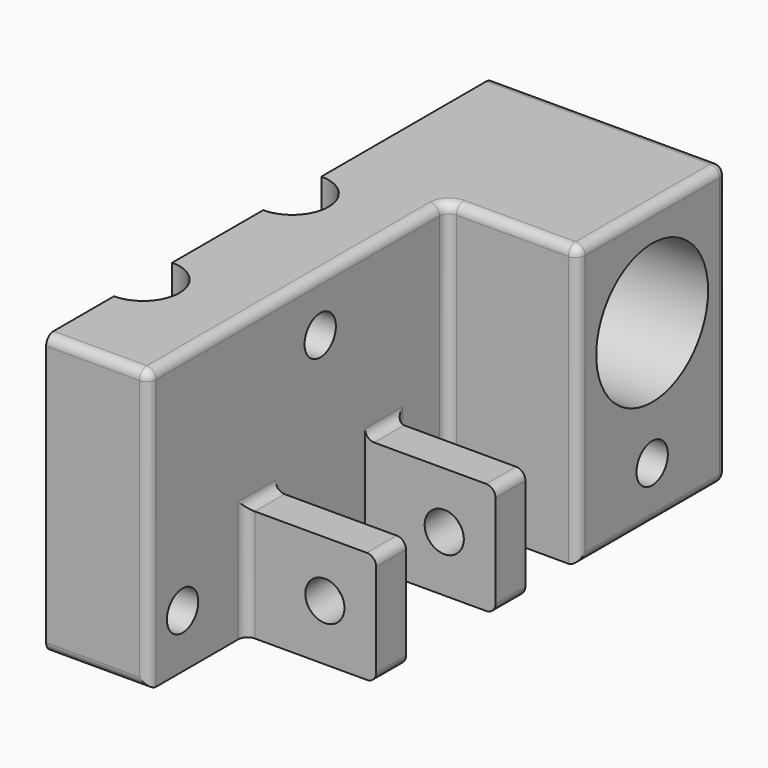
from build123d import *

# Parameters (mm, degrees)
F0_W     = 14
F0_H     = 20
F1_DEPTH = 30
F0_H_2   = 4
F2_DEPTH = 12
F3_R     = 7.5
F3_R_2   = 2.1
F4_DEPTH = 25.001
F5_R     = 2.1
F6_DEPTH = 25
F7_R     = 1


with BuildPart() as f1:
    # F0 (on Top) → F1 (new body)
    with BuildSketch(Plane.XY):
        with BuildLine():
            Line((-28.710388, 64.3535), (-39.710388, 64.3535))
            Line((-39.710388, 64.3535), (-39.710388, 41.2535))
            ThreePointArc((-39.710388, 41.2535), (-36.952671, 40.111216), (-35.810388, 37.3535))
            ThreePointArc((-35.810388, 37.3535), (-36.952671, 34.595783), (-39.710388, 33.4535))
            Line((-39.710388, 33.4535), (-39.710388, 21.2535))
            ThreePointArc((-39.710388, 21.2535), (-36.952671, 20.111216), (-35.810388, 17.3535))
            ThreePointArc((-35.810388, 17.3535), (-36.952671, 14.595783), (-39.710388, 13.4535))
            Line((-39.710388, 13.4535), (-39.710388, 4.3535))
            Line((-39.710388, 4.3535), (-28.710388, 4.3535))
            Line((-28.710388, 4.3535), (-28.710388, 17.3535))
            Line((-28.710388, 17.3535), (-28.710388, 21.3535))
            Line((-28.710388, 21.3535), (-28.710388, 33.3535))
            Line((-28.710388, 33.3535), (-28.710388, 37.3535))
            Line((-28.710388, 37.3535), (-28.710388, 44.3535))
            Line((-28.710388, 44.3535), (-28.710388, 64.3535))
        make_face()
        with Locations((-21.710388, 54.3535)):
            Rectangle(F0_W, F0_H)
    extrude(amount=F1_DEPTH)

    # F0 (on Top) → F2 (join)
    with BuildSketch(Plane.XY):
        with Locations((-21.710388, 35.3535)):
            Rectangle(F0_W, F0_H_2)
        with Locations((-21.710388, 19.3535)):
            Rectangle(F0_W, F0_H_2)
    extrude(amount=F2_DEPTH)

    # F3 (on face) → F4 (cut, through all)
    with BuildSketch(Plane.YZ.offset(-14.710388)):
        with Locations((54.3535, 19)):
            Circle(F3_R)
        with Locations((54.3535, 5.75)):
            Circle(F3_R_2)
        with Locations((27.3535, 24.25)):
            Circle(F3_R_2)
        with Locations((8.9035, 5.75)):
            Circle(F3_R_2)
    extrude(amount=-F4_DEPTH, mode=Mode.SUBTRACT)

    # F5 (on face) → F6 (cut)
    with BuildSketch(Plane(origin=(0, 37.3535, 0), x_dir=(-1, 0, 0), z_dir=(0, 1, 0))):
        with Locations((20.210388, 6)):
            Circle(F5_R)
    extrude(amount=-F6_DEPTH, mode=Mode.SUBTRACT)

    # F7
    f7_edges = [f1.edges().sort_by_distance(p)[0] for p in [
        (-14.710388, 35.3535, 12),
        (-14.710388, 19.3535, 12),
        (-14.710388, 19.3535, 0),
        (-14.710388, 54.3535, 0),
        (-14.710388, 44.3535, 15),
        (-14.710388, 54.3535, 30),
        (-14.710388, 64.3535, 15),
        (-27.210388, 64.3535, 0),
        (-27.210388, 64.3535, 30),
        (-34.210388, 4.3535, 0),
        (-28.710388, 4.3535, 15),
        (-28.710388, 24.3535, 30),
        (-21.710388, 44.3535, 30),
        (-28.710388, 19.3535, 12),
        (-28.710388, 35.3535, 12),
        (-28.710388, 37.3535, 6),
        (-28.710388, 17.3535, 6),
        (-34.210388, 4.3535, 30),
        (-28.710388, 44.3535, 15),
        (-14.710388, 35.3535, 0),
    ]]
    fillet(f7_edges, radius=F7_R)


solid = f1.part
